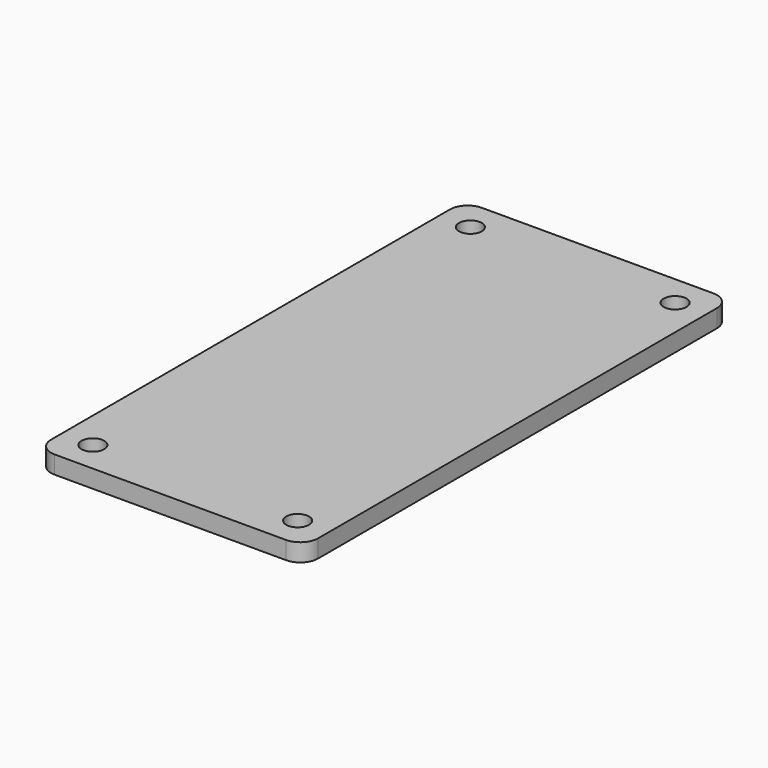
from build123d import *

# Parameters (mm, degrees)
F0_W     = 38.1
F0_H     = 76.2
F1_DEPTH = 2.54
F2_D     = 3.2512
F2_DEPTH = 14.605
F2_TIP   = 0.9767590223
F3_R     = 2.54


with BuildPart() as f1:
    # F0 (on Top) → F1 (new body)
    with BuildSketch(Plane.XY):
        Rectangle(F0_W, F0_H)
    extrude(amount=F1_DEPTH)

    # F2
    with Locations(Plane(origin=(0, 0, 0), x_dir=(1, 0, 0), z_dir=(0, 0, -1))):
        with Locations((-14.605, -33.655), (14.605, -33.655), (14.605, 33.655), (-14.605, 33.655)):
            Hole(F2_D / 2, depth=F2_DEPTH)
            with Locations((0, 0, -(F2_DEPTH + F2_TIP / 2))):  # 118° drill point
                Cone(0, F2_D / 2, F2_TIP, mode=Mode.SUBTRACT)

    # F3
    f3_edges = [f1.edges().sort_by_distance(p)[0] for p in [
        (-19.05, 38.1, 1.27),
        (-19.05, -38.1, 1.27),
        (19.05, 38.1, 1.27),
        (19.05, -38.1, 1.27),
    ]]
    fillet(f3_edges, radius=F3_R)


solid = f1.part
